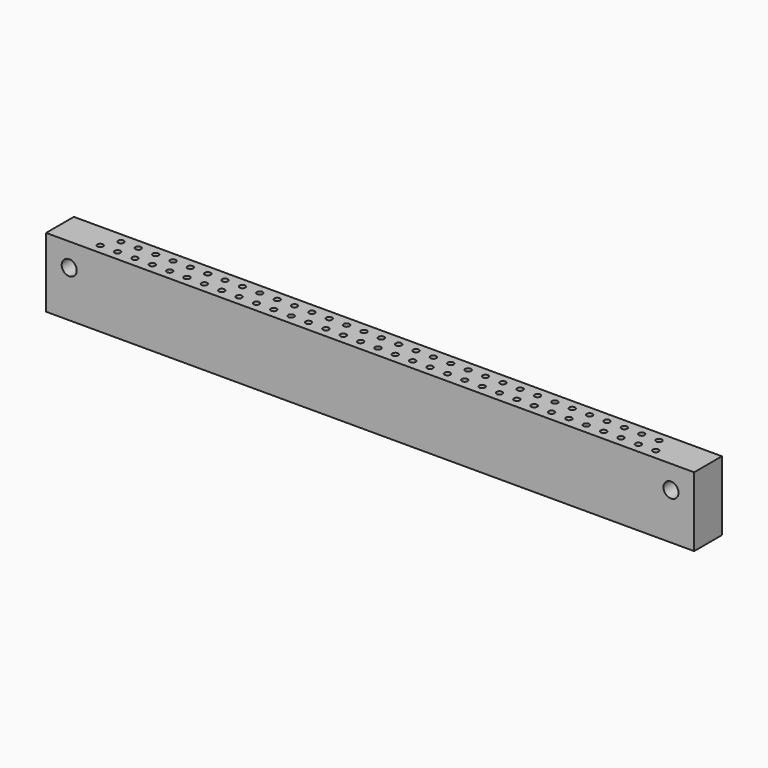
from build123d import *

# Parameters (mm, degrees)
F1_DEPTH = 38.1
F3_D     = 3.175
F3_DEPTH = 12.7
F3_TIP   = 0.9538662327
F5_D     = 8.255


with BuildPart() as f1:
    # F0 (on Top) → F1 (new body)
    with BuildSketch(Plane.XY):
        Polygon((-177.8, 0), (0, 0), (177.8, 0), (177.8, 19.05), (-177.8, 19.05), align=None)
    extrude(amount=F1_DEPTH)

    # F3
    with Locations(Plane.XY.offset(38.1)):
        with Locations((-95.25, 5.400548), (23.8125, 13.649439971), (-76.2, 5.400548), (-61.9125, 13.649439971), (-47.625, 5.400548), (-128.5875, 13.649439971), (138.1125, 13.649439971), (71.4375, 13.649439971), (90.4875, 13.649439971), (-109.5375, 13.649439971), (-123.825, 5.400548), (100.0125, 13.649439971), (42.8625, 13.649439971), (-28.575, 5.400548), (-33.3375, 13.649439971), (-147.6375, 13.649439971), (142.875, 5.400548), (104.775, 5.400548), (-52.3875, 13.649439971), (-104.775, 5.400548), (52.3875, 13.649439971), (-100.0125, 13.649439971), (-57.15, 5.400548), (33.3375, 13.649439971), (-119.0625, 13.649439971), (-38.1, 5.400548), (9.525, 5.400548), (19.05, 5.400548), (28.575, 5.400548), (38.1, 5.400548), (47.625, 5.400548), (57.15, 5.400548), (-80.9625, 13.649439971), (123.825, 5.400548), (-9.525, 5.400548), (-14.2875, 13.649439971), (-142.875, 5.400548), (119.0625, 13.649439971), (4.7625, 13.649439971), (14.2875, 13.649439971), (-138.1125, 13.649439971), (-19.05, 5.400548), (152.4, 5.400548), (80.9625, 13.649439971), (147.6375, 13.649439971), (-71.4375, 13.649439971), (-4.7625, 13.649439971), (-152.4, 5.400548), (-85.725, 5.400548), (133.35, 5.400548), (66.675, 5.400548), (61.9125, 13.649439971), (128.5875, 13.649439971), (-90.4875, 13.649439971), (-23.8125, 13.649439971), (-133.35, 5.400548), (-66.675, 5.400548), (114.3, 5.400548), (76.2, 5.400548), (85.725, 5.400548), (109.5375, 13.649439971), (-42.8625, 13.649439971), (-114.3, 5.400548), (95.25, 5.400548), (0, 5.400548)):
            Hole(F3_D / 2, depth=F3_DEPTH)
            with Locations((0, 0, -(F3_DEPTH + F3_TIP / 2))):  # 118° drill point
                Cone(0, F3_D / 2, F3_TIP, mode=Mode.SUBTRACT)

    # F5 (through all)
    with Locations(Plane.XZ):
        with Locations((-165.1, 25.4), (165.1, 25.4)):
            Hole(F5_D / 2)


solid = f1.part
